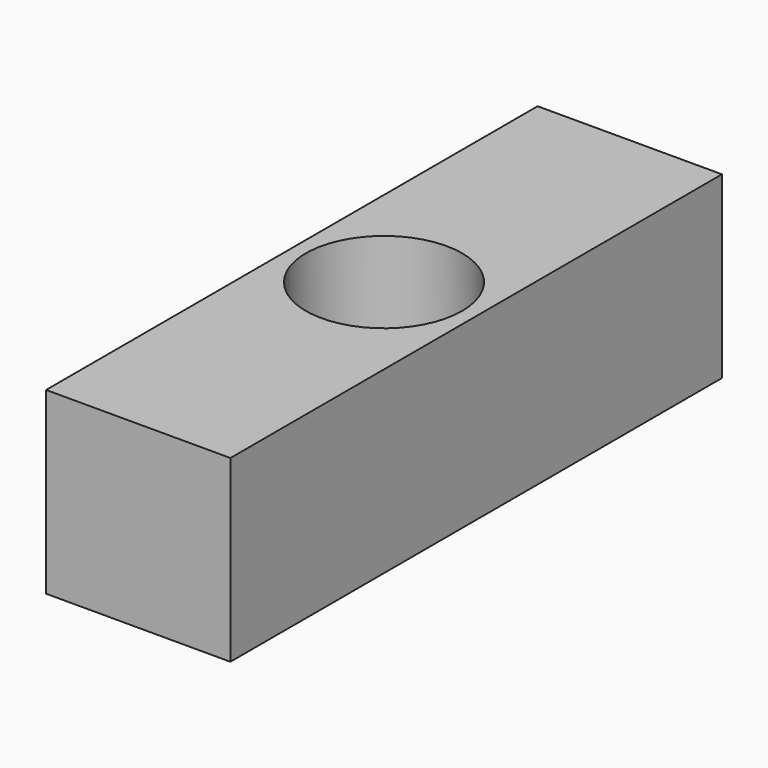
from build123d import *

# Parameters (mm, degrees)
F0_W     = 9.525
F0_H     = 9.271
F1_DEPTH = 31.75
F2_R     = 4.0386
F3_DEPTH = 5.08
F4_R     = 2.2225
F5_DEPTH = 4.192


with BuildPart() as f1:
    # F0 (on Front) → F1 (new body)
    with BuildSketch(Plane.XZ):
        with Locations((4.7625, 4.6355)):
            Rectangle(F0_W, F0_H)
    extrude(amount=F1_DEPTH)

    # F2 (on face) → F3 (cut)
    with BuildSketch(Plane.XY.offset(9.271)):
        with Locations((4.7625, -15.875)):
            Circle(F2_R)
    extrude(amount=-F3_DEPTH, mode=Mode.SUBTRACT)

    # F4 (on face) → F5 (cut, through all)
    with BuildSketch(Plane.XY.offset(4.191)):
        with Locations((4.7625, -15.875)):
            Circle(F4_R)
    extrude(amount=-F5_DEPTH, mode=Mode.SUBTRACT)


solid = f1.part
